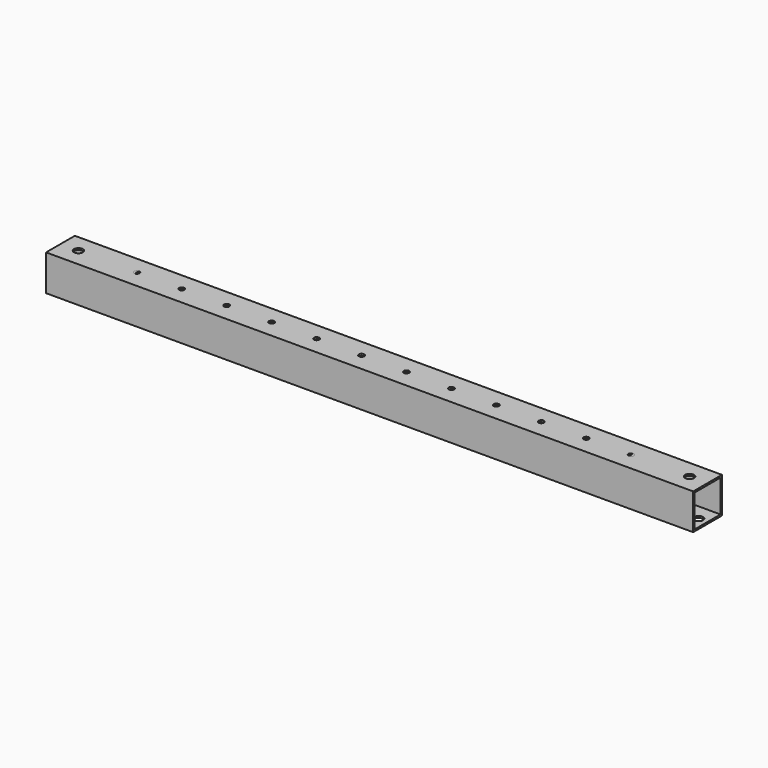
from build123d import *

# Parameters (mm, degrees)
SKETCH_W               = 290
SKETCH_H               = 20
PAD_DEPTH              = 20
SKETCH001_W            = 18
SKETCH001_H            = 18
POCKET_DEPTH           = 290.001
SKETCH002_R            = 2.5
POCKET001_DEPTH        = 5
SKETCH003_R            = 2.5
POCKET002_DEPTH        = 5
SKETCH004_R            = 1.5
POCKET003_DEPTH        = 5
LINEARPATTERN_COUNT    = 5
LINEARPATTERN_PITCH    = 25
SKETCH005_R            = 1.5
POCKET004_DEPTH        = 5
LINEARPATTERN001_COUNT = 5
LINEARPATTERN001_PITCH = 25
SKETCH006_W            = 360
SKETCH006_H            = 20
PAD001_DEPTH           = 20
SKETCH007_W            = 18
SKETCH007_H            = 18
POCKET005_DEPTH        = 360.001
SKETCH008_R            = 2.5
POCKET006_DEPTH        = 5
SKETCH009_R            = 2.5
POCKET007_DEPTH        = 5
SKETCH010_R            = 1.5
POCKET008_DEPTH        = 5
LINEARPATTERN002_COUNT = 6
LINEARPATTERN002_PITCH = 25
SKETCH011_R            = 1.5
POCKET009_DEPTH        = 5
LINEARPATTERN003_COUNT = 6
LINEARPATTERN003_PITCH = 25


with BuildPart() as f_180_tube:
    # Sketch → Pad (new body)
    with BuildSketch(Plane.XY):
        Rectangle(SKETCH_W, SKETCH_H)
    extrude(amount=PAD_DEPTH)

    # Sketch001 (on Face2 of Pad) → Pocket (cut, through all)
    with BuildSketch(Plane.YZ.offset(145)):
        with Locations((0, 10)):
            Rectangle(SKETCH001_W, SKETCH001_H)
    extrude(amount=-POCKET_DEPTH, mode=Mode.SUBTRACT)

    # Sketch002 (on Face5 of Pocket) → Pocket001 (cut)
    with BuildSketch(Plane.XY.offset(20)):
        with Locations((-135, 0)):
            Circle(SKETCH002_R)
        with Locations((135, 0)):
            Circle(SKETCH002_R)
    extrude(amount=-POCKET001_DEPTH, mode=Mode.SUBTRACT)

    # Sketch003 (on Face4 of Pocket001) → Pocket002 (cut)
    with BuildSketch(Plane(origin=(0, 0, 0), x_dir=(1, 0, 0), z_dir=(0, 0, -1))):
        with Locations((-140, 0)):
            Circle(SKETCH003_R)
        with Locations((-127, 0)):
            Circle(SKETCH003_R)
        with Locations((140, 0)):
            Circle(SKETCH003_R)
        with Locations((127, 0)):
            Circle(SKETCH003_R)
    extrude(amount=-POCKET002_DEPTH, mode=Mode.SUBTRACT)

    # Sketch004 (on Face5 of Pocket002) → Pocket003 (cut)
    with BuildSketch(Plane.XY.offset(20)):
        with Locations((12.5, 0)):
            Circle(SKETCH004_R)
    pocket003 = extrude(amount=-POCKET003_DEPTH, mode=Mode.SUBTRACT)

    # LinearPattern: Pocket003 ×5
    with Locations(*[(i * LINEARPATTERN_PITCH, 0, 0) for i in range(1, LINEARPATTERN_COUNT)]):
        add(pocket003, mode=Mode.SUBTRACT)

    # Sketch005 (on Face5 of LinearPattern) → Pocket004 (cut)
    with BuildSketch(Plane.XY.offset(20)):
        with Locations((-12.5, 0)):
            Circle(SKETCH005_R)
    pocket004 = extrude(amount=-POCKET004_DEPTH, mode=Mode.SUBTRACT)

    # LinearPattern001: Pocket004 ×5
    with Locations(*[(-i * LINEARPATTERN001_PITCH, 0, 0) for i in range(1, LINEARPATTERN001_COUNT)]):
        add(pocket004, mode=Mode.SUBTRACT)


with BuildPart() as f_250_tube:
    # Sketch006 → Pad001 (new body)
    with BuildSketch(Plane.XY):
        Rectangle(SKETCH006_W, SKETCH006_H)
    extrude(amount=PAD001_DEPTH)

    # Sketch007 (on Face2 of Pad001) → Pocket005 (cut, through all)
    with BuildSketch(Plane.YZ.offset(180)):
        with Locations((0, 10)):
            Rectangle(SKETCH007_W, SKETCH007_H)
    extrude(amount=-POCKET005_DEPTH, mode=Mode.SUBTRACT)

    # Sketch008 (on Face5 of Pocket005) → Pocket006 (cut)
    with BuildSketch(Plane.XY.offset(20)):
        with Locations((-170, 0)):
            Circle(SKETCH008_R)
        with Locations((170, 0)):
            Circle(SKETCH008_R)
    extrude(amount=-POCKET006_DEPTH, mode=Mode.SUBTRACT)

    # Sketch009 (on Face4 of Pocket006) → Pocket007 (cut)
    with BuildSketch(Plane(origin=(0, 0, 0), x_dir=(1, 0, 0), z_dir=(0, 0, -1))):
        with Locations((-175, 0)):
            Circle(SKETCH009_R)
        with Locations((-162, 0)):
            Circle(SKETCH009_R)
        with Locations((162, 0)):
            Circle(SKETCH009_R)
        with Locations((175, 0)):
            Circle(SKETCH009_R)
    extrude(amount=-POCKET007_DEPTH, mode=Mode.SUBTRACT)

    # Sketch010 (on Face5 of Pocket007) → Pocket008 (cut)
    with BuildSketch(Plane.XY.offset(20)):
        with Locations((12.5, 0)):
            Circle(SKETCH010_R)
    pocket008 = extrude(amount=-POCKET008_DEPTH, mode=Mode.SUBTRACT)

    # LinearPattern002: Pocket008 ×6
    with Locations(*[(i * LINEARPATTERN002_PITCH, 0, 0) for i in range(1, LINEARPATTERN002_COUNT)]):
        add(pocket008, mode=Mode.SUBTRACT)

    # Sketch011 (on Face5 of LinearPattern002) → Pocket009 (cut)
    with BuildSketch(Plane.XY.offset(20)):
        with Locations((-12.5, 0)):
            Circle(SKETCH011_R)
    pocket009 = extrude(amount=-POCKET009_DEPTH, mode=Mode.SUBTRACT)

    # LinearPattern003: Pocket009 ×6
    with Locations(*[(-i * LINEARPATTERN003_PITCH, 0, 0) for i in range(1, LINEARPATTERN003_COUNT)]):
        add(pocket009, mode=Mode.SUBTRACT)


solid = Compound([f_180_tube.part, f_250_tube.part])
